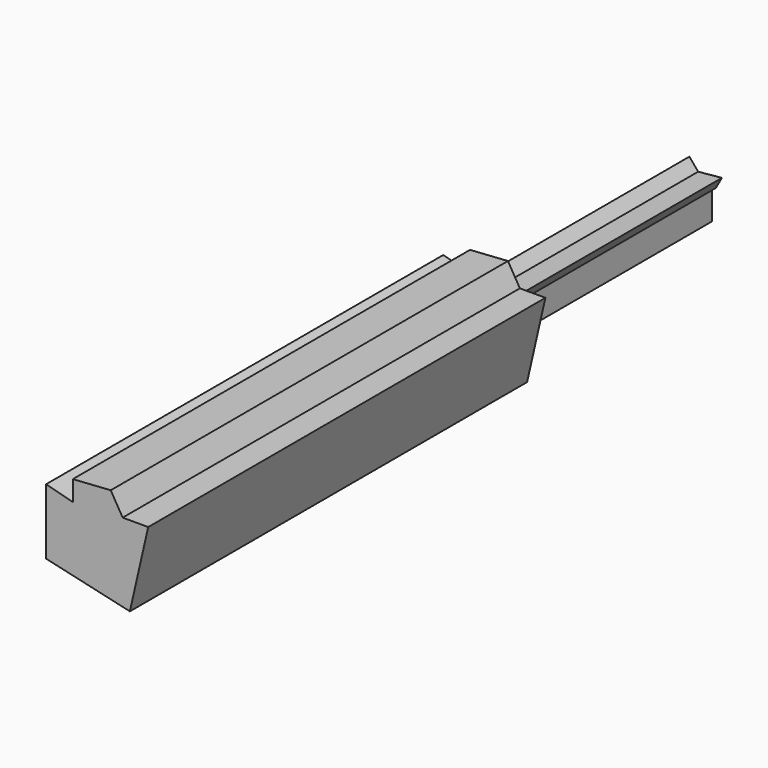
from build123d import *

# Parameters (mm, degrees)
F1_DEPTH = 508
F3_DEPTH = 254
F5_DEPTH = 254


with BuildPart() as f1:
    # F0 (on Front) → F1 (new body)
    with BuildSketch(Plane.XZ):
        Polygon((-22.912122, 26.238084), (-50.258853, 33.43459), (-50.258853, -33.629075), (35.476834, -53.215235), (54.221553, 28.837158), (28.085828, 28.837158), (15.890658, 49.519747), (-22.912122, 46.932891), align=None)
    extrude(amount=F1_DEPTH)

    # F2 (on face) → F3 (join)
    with BuildSketch(Plane(origin=(0, 0, 0), x_dir=(-1, 0, 0), z_dir=(0, 1, 0))):
        Polygon((28.587002, 10.809334), (-5.875511, 11.1418), (-6.94721, 10.140639), (-24.068851, 12.258933), (-25.929179, -8.414216), (0, -22.702822), (16.708504, -22.702822), (31.25754, -10.755406), align=None)
    extrude(amount=-F3_DEPTH)

    # F4 (on Front) → F5 (join)
    with BuildSketch(Plane.XZ):
        Polygon((21.636747, -16.150855), (21.636747, 12.28594), (25.461577, 15.112989), (31.614564, 26.254892), (7.335201, 23.926727), (-1.644839, 34.56974), (-20.935295, 13.616316), (-33.906464, -2.84709), (-24.760127, -19.1442), (-13.618225, -9.997867), (-3.474105, -22.470139), align=None)
    extrude(amount=-F5_DEPTH)


solid = f1.part
